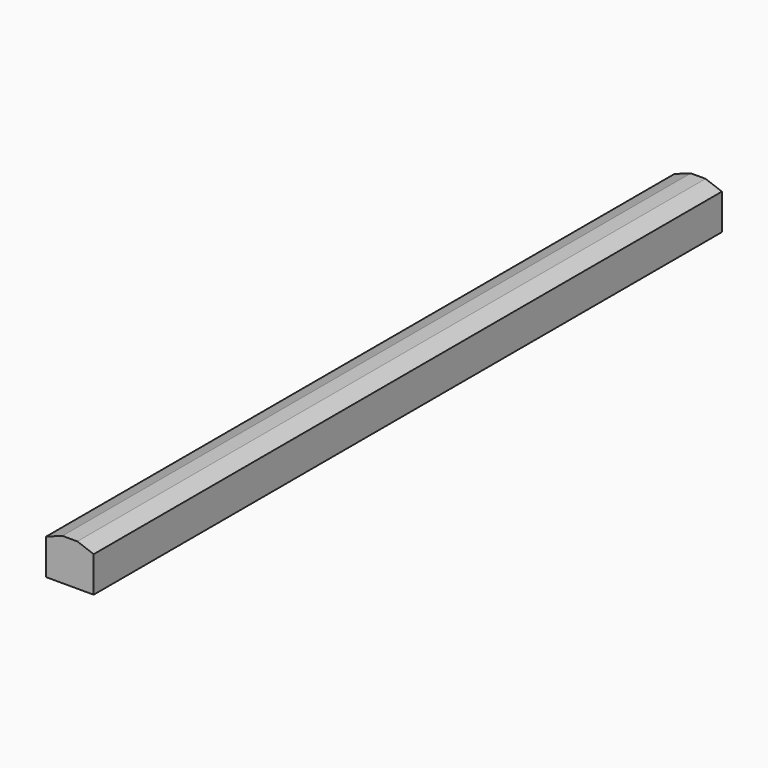
from build123d import *

# Parameters (mm, degrees)
F0_W     = 3352.8
F0_H     = 177.8
F1_DEPTH = 101.6
F3_DEPTH = 3352.8


with BuildPart() as f1:
    # F0 (on Right) → F1 (new body, symmetric)
    with BuildSketch(Plane.YZ):
        Rectangle(F0_W, F0_H)
    extrude(amount=F1_DEPTH, both=True)

    # F2 (on face) → F3 (cut)
    with BuildSketch(Plane.XZ.offset(1676.4)):
        Polygon((-101.6, 88.9), (-101.6, 63.5), (-31.75, 88.9), align=None)
        Polygon((101.6, 88.9), (31.75, 88.9), (101.6, 63.5), align=None)
    extrude(amount=-F3_DEPTH, mode=Mode.SUBTRACT)


solid = f1.part
